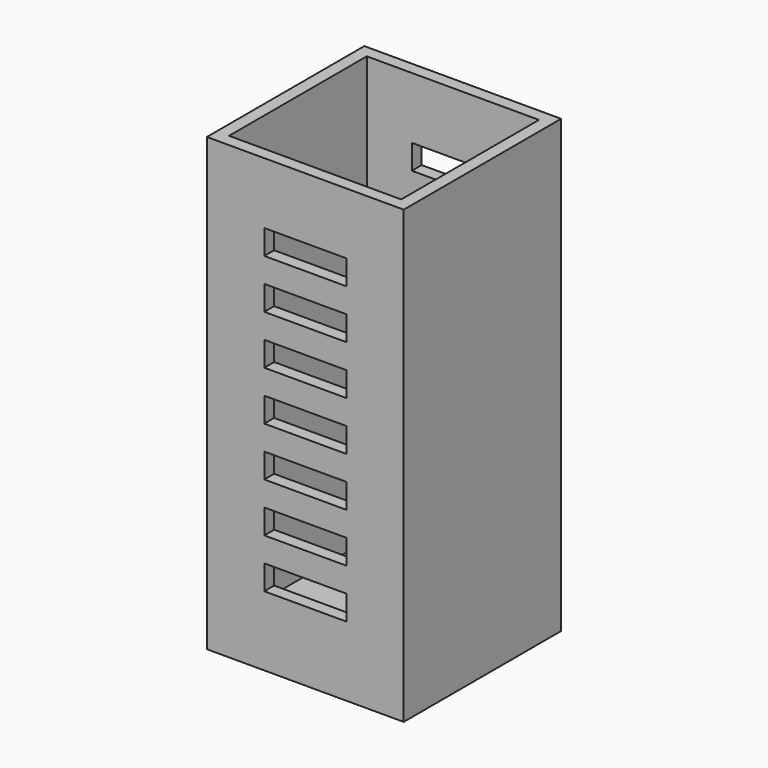
from build123d import *

# Parameters (mm, degrees)
SKETCH007_W          = 21
SKETCH007_H          = 21
SKETCH007_R          = 2.5
PAD006_DEPTH         = 3
SKETCH008_W          = 24
SKETCH008_H          = 24
SKETCH008_W_2        = 21
SKETCH008_H_2        = 21
PAD007_DEPTH         = 55
SKETCH009_W          = 10
SKETCH009_H          = 3
POCKET001_DEPTH      = 20
POCKET001_DEPTH_BACK = 20
LINEARPATTERN_COUNT  = 7
LINEARPATTERN_PITCH  = 6


with BuildPart() as part:
    # Sketch007 → Pad006 (new body)
    with BuildSketch(Plane.XY):
        Rectangle(SKETCH007_W, SKETCH007_H)
        with Locations((2, 0)):
            Circle(SKETCH007_R, mode=Mode.SUBTRACT)
    extrude(amount=PAD006_DEPTH)

    # Sketch008 → Pad007 (join)
    with BuildSketch(Plane.XY):
        Rectangle(SKETCH008_W, SKETCH008_H)
        Rectangle(SKETCH008_W_2, SKETCH008_H_2, mode=Mode.SUBTRACT)
    extrude(amount=PAD007_DEPTH)

    # Sketch009 → Pocket001 (cut, two sides)
    with BuildSketch(Plane.XZ) as pocket001_sk:
        with Locations((0, 10)):
            Rectangle(SKETCH009_W, SKETCH009_H)
    pocket001 = extrude(amount=-POCKET001_DEPTH, mode=Mode.SUBTRACT) + extrude(pocket001_sk.sketch, amount=POCKET001_DEPTH_BACK, mode=Mode.SUBTRACT)

    # LinearPattern: Pocket001 ×7
    with Locations(*[(0, 0, i * LINEARPATTERN_PITCH) for i in range(1, LINEARPATTERN_COUNT)]):
        add(pocket001, mode=Mode.SUBTRACT)


with BuildPart() as part_1:
    # Body002 placement: moved
    add(part.part.moved(Location((0, 0, 20.5))))


solid = part_1.part
